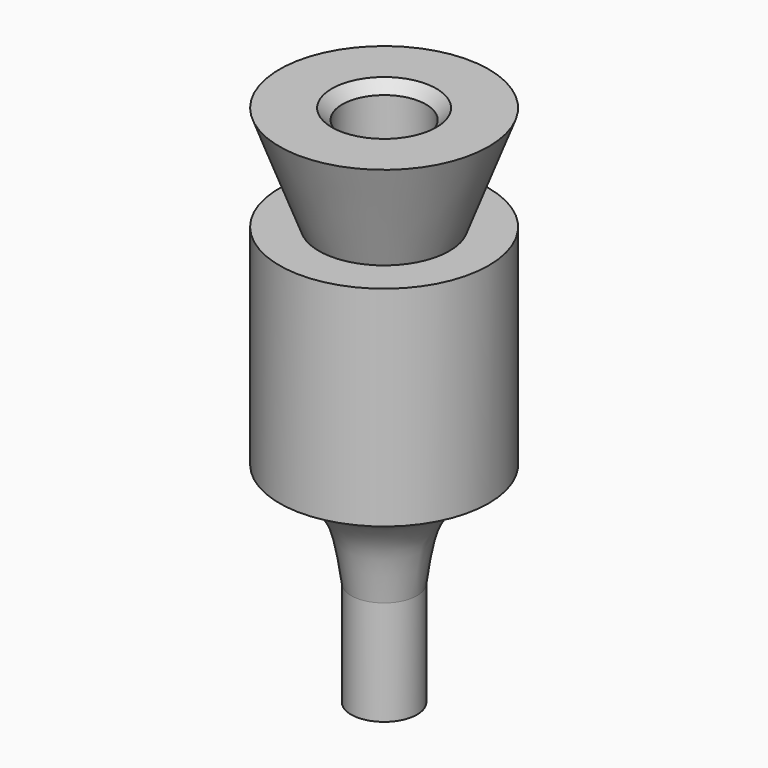
from build123d import *

# Parameters (mm, degrees)
F2_R           = 1.25
F3_DEPTH       = 50.001
F4_R           = 2
F5_DEPTH       = 35
F7_D           = 8
F7_DEPTH       = 10
F7_CSINK_D     = 10
F7_CSINK_ANGLE = 90
F7_TIP         = 2.4034424761


with BuildPart() as f1:
    # F0 (on Front) → F1 (revolve)
    with BuildSketch(Plane.XZ):
        Polygon((6.2365774143, -10), (10, 0), (0, 0), (0, -50), (3.15, -50), (3.15, -40), (3.15, -30), (10, -30), (10, -10), align=None)
        with BuildLine():
            add(Edge.make_bspline(
                [(10, -30), (7.4056518976, -31.2777532916), (6.0791644046, -31.9480016), (3.9945104258, -34.715284016), (3.61089129, -36.7225967348), (3.15, -40)],
                knots=[0, 0, 0, 0, 0.3551625171, 0.6094131259, 1, 1, 1, 1], degree=3))
            Line((10, -30), (3.15, -30))
            Line((3.15, -30), (3.15, -40))
        make_face()
    revolve(axis=Axis((0, 0, -25), (0, 0, 1)))

    # F2 (on face) → F3 (cut, through all)
    with BuildSketch(Plane(origin=(0, 0, -50), x_dir=(1, 0, 0), z_dir=(0, 0, -1))):
        Circle(F2_R)
    extrude(amount=-F3_DEPTH, mode=Mode.SUBTRACT)

    # F4 (on face) → F5 (cut)
    with BuildSketch(Plane(origin=(0, 0, -50), x_dir=(1, 0, 0), z_dir=(0, 0, -1))):
        Circle(F4_R)
    extrude(amount=F5_DEPTH, mode=Mode.SUBTRACT)

    # F7
    with Locations(Plane.XY):
        with Locations((0, 0)):
            CounterSinkHole(F7_D / 2, F7_CSINK_D / 2, depth=F7_DEPTH, counter_sink_angle=F7_CSINK_ANGLE)
            with Locations((0, 0, -(F7_DEPTH + F7_TIP / 2))):  # 118° drill point
                Cone(0, F7_D / 2, F7_TIP, mode=Mode.SUBTRACT)


solid = f1.part
